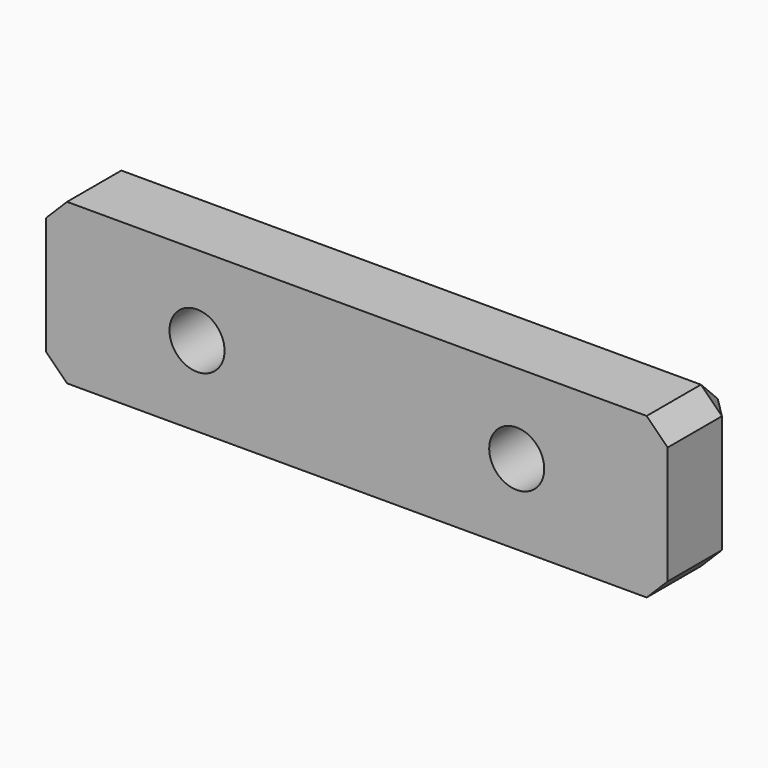
from build123d import *

# Parameters (mm, degrees)
F0_W           = 44.45
F0_H           = 11.43
F1_DEPTH       = 6.35
F2_D           = 3.937
F2_DEPTH       = 6.35
F2_CBORE_D     = 7.256526
F2_CBORE_DEPTH = 1.5875
F3_SIZE        = 1.5


with BuildPart() as f1:
    # F0 (on Front) → F1 (new body)
    with BuildSketch(Plane.XZ):
        Rectangle(F0_W, F0_H)
    extrude(amount=F1_DEPTH)

    # F2
    with Locations(Plane(origin=(0, 0, 0), x_dir=(1, 0, 0), z_dir=(0, 1, 0))):
        with Locations((-11.43, 0), (11.43, 0)):
            CounterBoreHole(F2_D / 2, F2_CBORE_D / 2, F2_CBORE_DEPTH, depth=F2_DEPTH)

    # F3
    f3_edges = [f1.edges().sort_by_distance(p)[0] for p in [
        (0, 0, 5.715),
        (0, 0, -5.715),
        (22.225, 0, 0),
        (-22.225, 0, 0),
        (22.225, -3.175, -5.715),
        (22.225, -3.175, 5.715),
        (-22.225, -3.175, 5.715),
        (-22.225, -3.175, -5.715),
    ]]
    chamfer(f3_edges, length=F3_SIZE)


solid = f1.part
